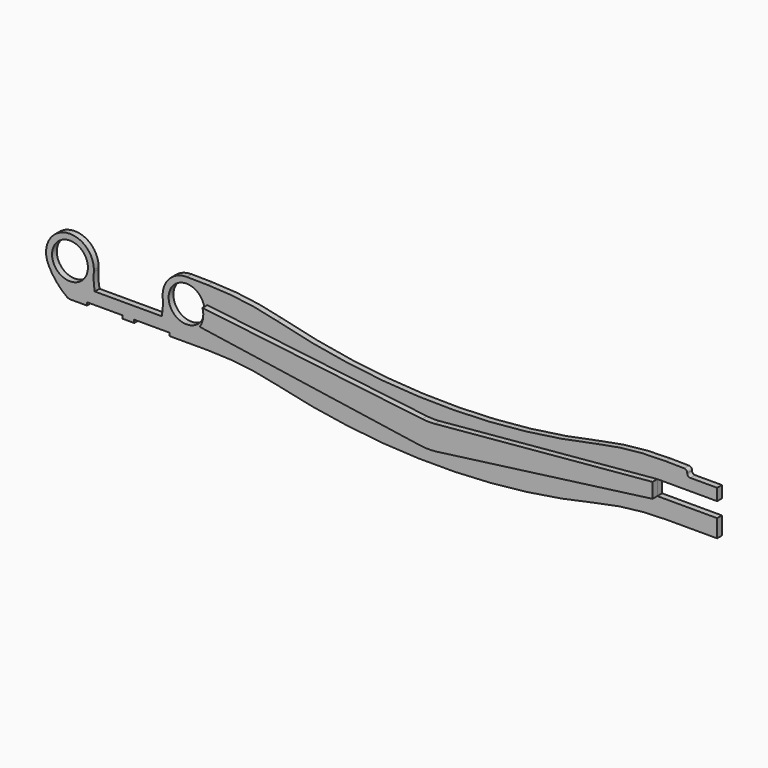
from build123d import *

# Parameters (mm, degrees)
F0_R     = 30
F1_DEPTH = 5
F3_DEPTH = 10
F4_W     = 50
F4_H     = 52.275077
F5_DEPTH = 25
F6_R     = 5


with BuildPart() as f1:
    # F0 (on Front) → F1 (new body, symmetric)
    with BuildSketch(Plane.XZ):
        with BuildLine():
            ThreePointArc((-57.639096, -3.332913), (-57.534789, -1.667907), (-57.5, 0))
            ThreePointArc((-57.5, 0), (-106.366531, 39.004931), (-133.569231, -17.291922))
            ThreePointArc((-133.569231, -17.291922), (-90.267595, -39.340721), (-57.639096, -3.332913))
        make_face()
        with Locations((-97.5, 0)):
            Circle(F0_R, mode=Mode.SUBTRACT)
        with BuildLine():
            ThreePointArc((98.581492, 39.985377), (98.040796, 39.996344), (97.5, 40))
            Line((97.5, 40), (98.581492, 39.985377))
        make_face()
        with BuildLine():
            ThreePointArc((97.5, 40), (68.06094, 27.080283), (57.639096, -3.332913))
            ThreePointArc((57.639096, -3.332913), (99.167907, -39.965211), (137.5, 0))
            ThreePointArc((137.5, 0), (126.164086, 27.899286), (98.581492, 39.985377))
            Line((98.581492, 39.985377), (97.5, 40))
        make_face()
        with Locations((97.5, 0)):
            Circle(F0_R, mode=Mode.SUBTRACT)
        with BuildLine():
            ThreePointArc((-57.639096, -3.332913), (-90.267595, -39.340721), (-133.569231, -17.291922))
            ThreePointArc((-133.569231, -17.291922), (-120.441501, -37.81174), (-102.741898, -54.548654))
            ThreePointArc((-102.741898, -54.548654), (-99.9309, -55.999646), (-96.807324, -56.5))
            Line((-96.807324, -56.5), (-69, -56.5))
            Line((-69, -56.5), (-69, -51.5))
            Line((-69, -51.5), (-10, -51.5))
            Line((-10, -51.5), (-10, -56.5))
            Line((-10, -56.5), (0, -56.5))
            Line((0, -56.5), (0, -31.5))
            Line((0, -31.5), (-56, -31.5))
            ThreePointArc((-56, -31.5), (-57.817949, -17.474555), (-57.639096, -3.332913))
        make_face()
        with BuildLine():
            ThreePointArc((-57.639096, -3.332913), (-57.534789, -1.667907), (-57.5, 0))
            ThreePointArc((-57.5, 0), (-106.366531, 39.004931), (-133.569231, -17.291922))
            ThreePointArc((-133.569231, -17.291922), (-90.267595, -39.340721), (-57.639096, -3.332913))
        make_face()
        with Locations((-97.5, 0)):
            Circle(F0_R, mode=Mode.SUBTRACT)
        with BuildLine():
            ThreePointArc((97.5, 40), (68.06094, 27.080283), (57.639096, -3.332913))
            ThreePointArc((57.639096, -3.332913), (99.167907, -39.965211), (137.5, 0))
            ThreePointArc((137.5, 0), (126.164086, 27.899286), (98.581492, 39.985377))
            Line((98.581492, 39.985377), (97.5, 40))
        make_face()
        with Locations((97.5, 0)):
            Circle(F0_R, mode=Mode.SUBTRACT)
        with BuildLine():
            Line((56, -31.5), (0, -31.5))
            Line((0, -31.5), (0, -56.5))
            Line((0, -56.5), (10, -56.5))
            Line((10, -56.5), (10, -51.5))
            Line((10, -51.5), (69, -51.5))
            Line((69, -51.5), (69, -56.5))
            Line((69, -56.5), (133.289386, -56.5))
            ThreePointArc((133.289386, -56.5), (191.713948, -59.925161), (249.338057, -70.153718))
            ThreePointArc((249.338057, -70.153718), (516.25, -101.55727), (783.161943, -70.153718))
            ThreePointArc((783.161943, -70.153718), (840.782267, -59.925607), (899.202992, -56.5))
            Line((899.202992, -56.5), (985, -56.5))
            Line((985, -56.5), (985, -26.75))
            Line((985, -26.75), (885, -26.75))
            Line((885, -26.75), (885, -1.75))
            Line((885, -1.75), (985, -1.75))
            Line((985, -1.75), (985, 28))
            Line((985, 28), (899.210834, 29.159966))
            ThreePointArc((899.210834, 29.159966), (840.739846, 26.524444), (782.977465, 17.074059))
            ThreePointArc((782.977465, 17.074059), (515.640717, -10.723528), (249.153273, 24.291963))
            ThreePointArc((249.153273, 24.291963), (191.667521, 35.300633), (133.289166, 39.51609))
            Line((133.289166, 39.51609), (98.581492, 39.985377))
            ThreePointArc((98.581492, 39.985377), (126.164086, 27.899286), (137.5, 0))
            ThreePointArc((137.5, 0), (99.167907, -39.965211), (57.639096, -3.332913))
            ThreePointArc((57.639096, -3.332913), (57.817949, -17.474555), (56, -31.5))
        make_face()
        with BuildLine():
            Line((56, -31.5), (0, -31.5))
            Line((0, -31.5), (0, -56.5))
            Line((0, -56.5), (10, -56.5))
            Line((10, -56.5), (10, -51.5))
            Line((10, -51.5), (69, -51.5))
            Line((69, -51.5), (69, -56.5))
            Line((69, -56.5), (133.289386, -56.5))
            ThreePointArc((133.289386, -56.5), (191.713948, -59.925161), (249.338057, -70.153718))
            ThreePointArc((249.338057, -70.153718), (516.25, -101.55727), (783.161943, -70.153718))
            ThreePointArc((783.161943, -70.153718), (840.782267, -59.925607), (899.202992, -56.5))
            Line((899.202992, -56.5), (985, -56.5))
            Line((985, -56.5), (985, -26.75))
            Line((985, -26.75), (885, -26.75))
            Line((885, -26.75), (885, -1.75))
            Line((885, -1.75), (985, -1.75))
            Line((985, -1.75), (985, 28))
            Line((985, 28), (899.210834, 29.159966))
            ThreePointArc((899.210834, 29.159966), (840.739846, 26.524444), (782.977465, 17.074059))
            ThreePointArc((782.977465, 17.074059), (515.640717, -10.723528), (249.153273, 24.291963))
            ThreePointArc((249.153273, 24.291963), (191.667521, 35.300633), (133.289166, 39.51609))
            Line((133.289166, 39.51609), (98.581492, 39.985377))
            ThreePointArc((98.581492, 39.985377), (126.164086, 27.899286), (137.5, 0))
            ThreePointArc((137.5, 0), (99.167907, -39.965211), (57.639096, -3.332913))
            ThreePointArc((57.639096, -3.332913), (57.817949, -17.474555), (56, -31.5))
        make_face()
    extrude(amount=F1_DEPTH, both=True)

    # F4 (on face) → F5 (cut)
    with BuildSketch(Plane.XZ.offset(5)):
        with Locations((960, 44.137538)):
            Rectangle(F4_W, F4_H)
    extrude(amount=-F5_DEPTH, mode=Mode.SUBTRACT)

    # F6
    f6_edges = [f1.edges().sort_by_distance(p)[0] for p in [
        (935, 0, 18),
        (935, 0, 28.676056),
    ]]
    fillet(f6_edges, radius=F6_R)


with BuildPart() as f3:
    # F2 (on face) → F3 (new body)
    with BuildSketch(Plane.XZ.offset(5)):
        with BuildLine():
            Line((885, -26.75), (885, -1.75))
            Line((885, -1.75), (520.46777, -34.691635))
            ThreePointArc((520.46777, -34.691635), (510.008041, -35.086805), (499.564304, -34.386471))
            Line((499.564304, -34.386471), (132.180281, 9.65806))
            ThreePointArc((132.180281, 9.65806), (133.065016, -5.579392), (127.556756, -19.81392))
            Line((127.556756, -19.81392), (496.098009, -74.477892))
            ThreePointArc((496.098009, -74.477892), (510.007494, -75.55718), (523.93182, -74.690138))
            Line((523.93182, -74.690138), (885, -26.75))
        make_face()
    extrude(amount=F3_DEPTH)


solid = Compound([f1.part, f3.part])
